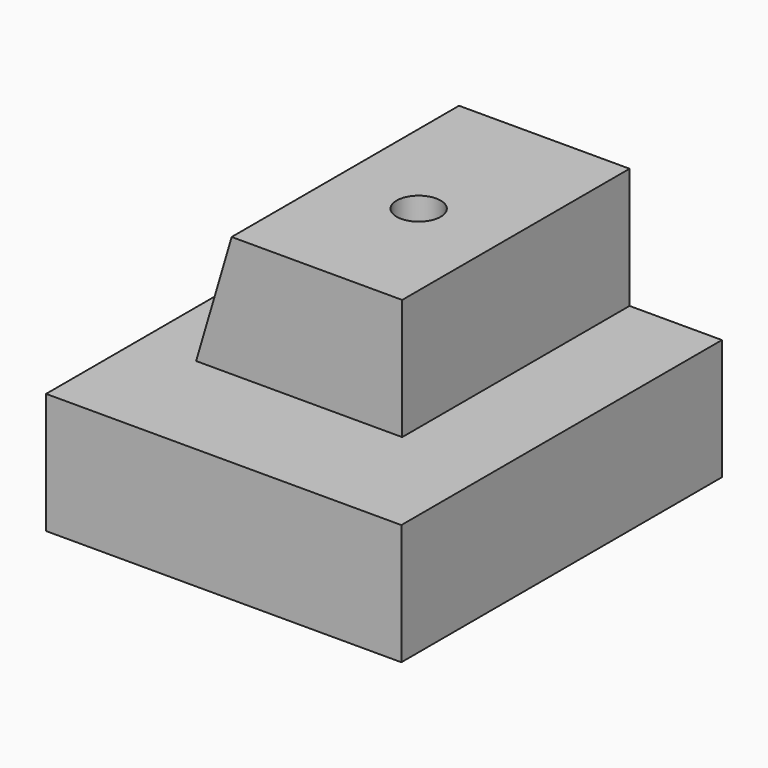
from build123d import *

# Parameters (mm, degrees)
F0_W     = 63.5
F0_H     = 71.628
F1_DEPTH = 21.59
F2_W     = 36.83
F2_H     = 50.8
F3_DEPTH = 21.59
F5_DEPTH = 50.8
F6_R     = 3.937
F7_DEPTH = 43.181


with BuildPart() as f1:
    # F0 (on Top) → F1 (new body)
    with BuildSketch(Plane.XY):
        with Locations((31.75, 35.814)):
            Rectangle(F0_W, F0_H)
    extrude(amount=-F1_DEPTH)

    # F2 (on face) → F3 (join)
    with BuildSketch(Plane.XY):
        with Locations((28.575, 46.228)):
            Rectangle(F2_W, F2_H)
    extrude(amount=F3_DEPTH)

    # F4 (on face) → F5 (cut)
    with BuildSketch(Plane.XZ.offset(-20.828)):
        Polygon((10.16, 0), (16.51, 21.59), (10.16, 21.59), align=None)
    extrude(amount=-F5_DEPTH, mode=Mode.SUBTRACT)

    # F6 (on face) → F7 (cut, through all)
    with BuildSketch(Plane.XY.offset(21.59)):
        with Locations((31.54692, 43.815)):
            Circle(F6_R)
    extrude(amount=-F7_DEPTH, mode=Mode.SUBTRACT)


solid = f1.part
